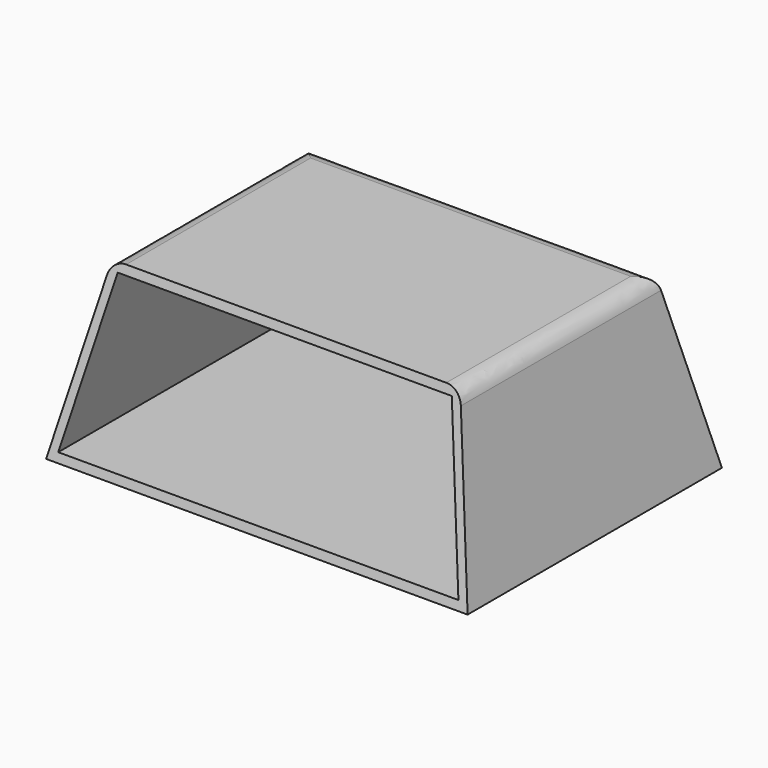
from build123d import *

# Parameters (mm, degrees)
F0_W     = 102.3769811426
F0_H     = 71.8978196383
F1_DEPTH = 50.8
F1_TAPER = -12
F2_T     = -2.54
F3_R     = 5.08


with BuildPart() as f1:
    # F0 (on Top) → F1 (new body)
    with BuildSketch(Plane.XY):
        Rectangle(F0_W, F0_H)
    extrude(amount=-F1_DEPTH, taper=F1_TAPER)

    # F2
    f2_openings = [f1.faces().sort_by_distance(p)[0] for p in [
        (0, -41.519548, -26.207794),
    ]]
    offset(amount=F2_T, openings=f2_openings, kind=Kind.INTERSECTION)

    # F3
    f3_edges = [f1.edges().sort_by_distance(p)[0] for p in [
        (51.188491, 0, 0),
        (-51.188491, 0, 0),
        (0, 35.94891, 0),
    ]]
    fillet(f3_edges, radius=F3_R)


solid = f1.part
